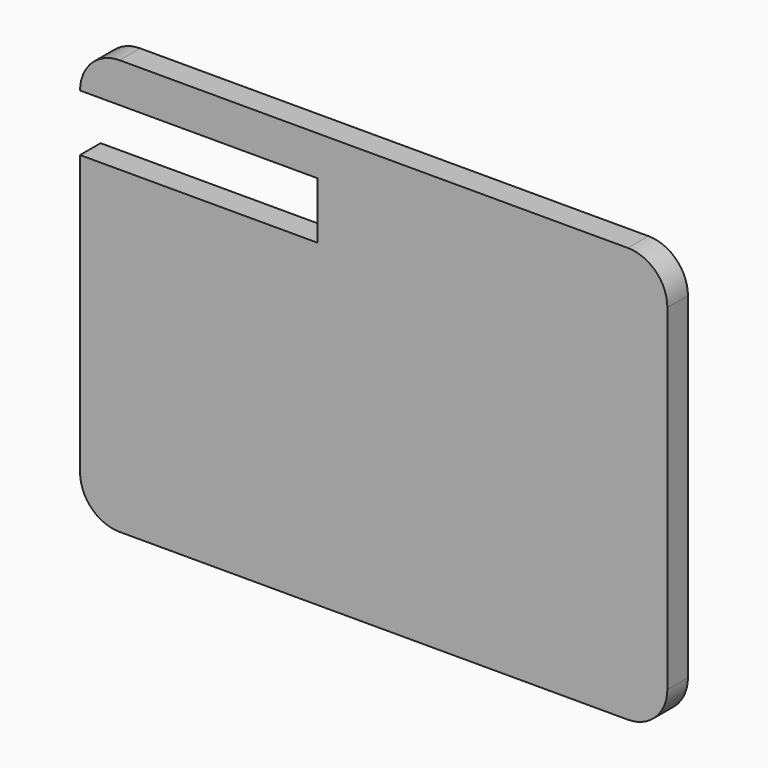
from build123d import *

# Parameters (mm, degrees)
F1_DEPTH = 13
F2_W     = 120.1073021542
F2_H     = 28.7127285648
F5_DEPTH = 25


with BuildPart() as f1:
    # F0 (on Front) → F1 (new body)
    with BuildSketch(Plane.XZ):
        with BuildLine():
            Line((182.6286758829, 123.4112512518), (-74.3713241171, 123.4112512518))
            ThreePointArc((-74.3713241171, 123.4112512518), (-88.5134597409, 117.5533868755), (-94.3713241171, 103.4112512518))
            Line((-94.3713241171, 103.4112512518), (-94.3713241171, -66.5887487482))
            ThreePointArc((-94.3713241171, -66.5887487482), (-88.5134597409, -80.7308843719), (-74.3713241171, -86.5887487482))
            Line((-74.3713241171, -86.5887487482), (182.6286758829, -86.5887487482))
            ThreePointArc((182.6286758829, -86.5887487482), (196.7708115066, -80.7308843719), (202.6286758829, -66.5887487482))
            Line((202.6286758829, -66.5887487482), (202.6286758829, 103.4112512518))
            ThreePointArc((202.6286758829, 103.4112512518), (196.7708115066, 117.5533868755), (182.6286758829, 123.4112512518))
        make_face()
    extrude(amount=F1_DEPTH)

    # F2 (on face) → F5 (cut)
    with BuildSketch(Plane.XZ.offset(13)):
        with Locations((-34.31767304, 89.0548869694)):
            Rectangle(F2_W, F2_H)
    extrude(amount=-F5_DEPTH, mode=Mode.SUBTRACT)


solid = f1.part
